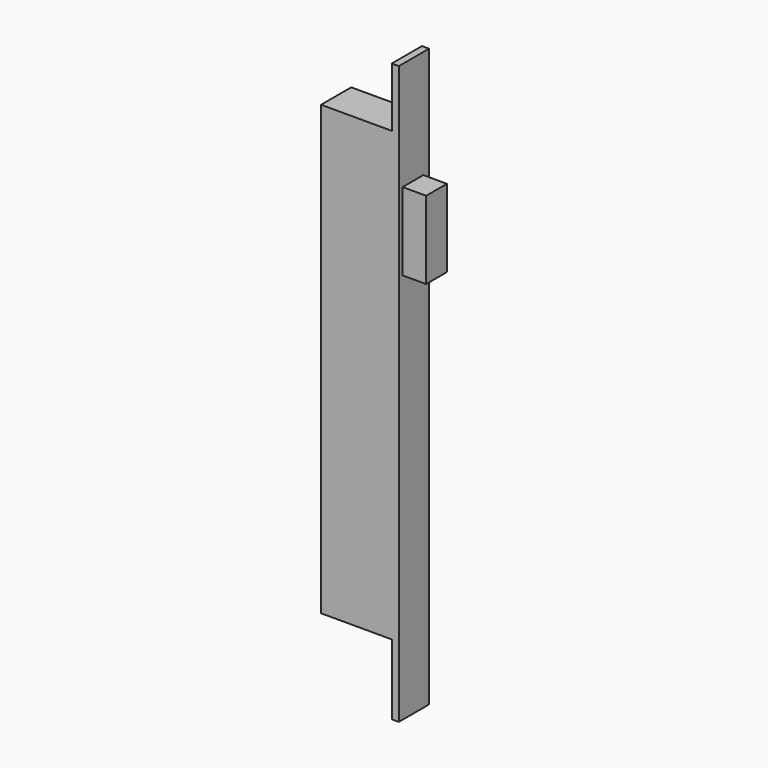
from build123d import *

# Parameters (mm, degrees)
F0_W     = 16
F0_H     = 190
F1_DEPTH = 30
F3_W     = 16
F3_H     = 245
F4_DEPTH = 3
F5_W     = 11
F5_H     = 33
F6_DEPTH = 10


with BuildPart() as f1:
    # F0 (on Right) → F1 (new body)
    with BuildSketch(Plane.YZ):
        with Locations((8, -95)):
            Rectangle(F0_W, F0_H)
    extrude(amount=F1_DEPTH)

    # F3 (on face) → F4 (join)
    with BuildSketch(Plane.YZ.offset(30)):
        with Locations((8, -97.338722)):
            Rectangle(F3_W, F3_H)
    extrude(amount=F4_DEPTH)

    # F5 (on face) → F6 (join)
    with BuildSketch(Plane.YZ.offset(33)):
        with Locations((7.497938, -37.338722)):
            Rectangle(F5_W, F5_H)
    extrude(amount=F6_DEPTH)


solid = f1.part
